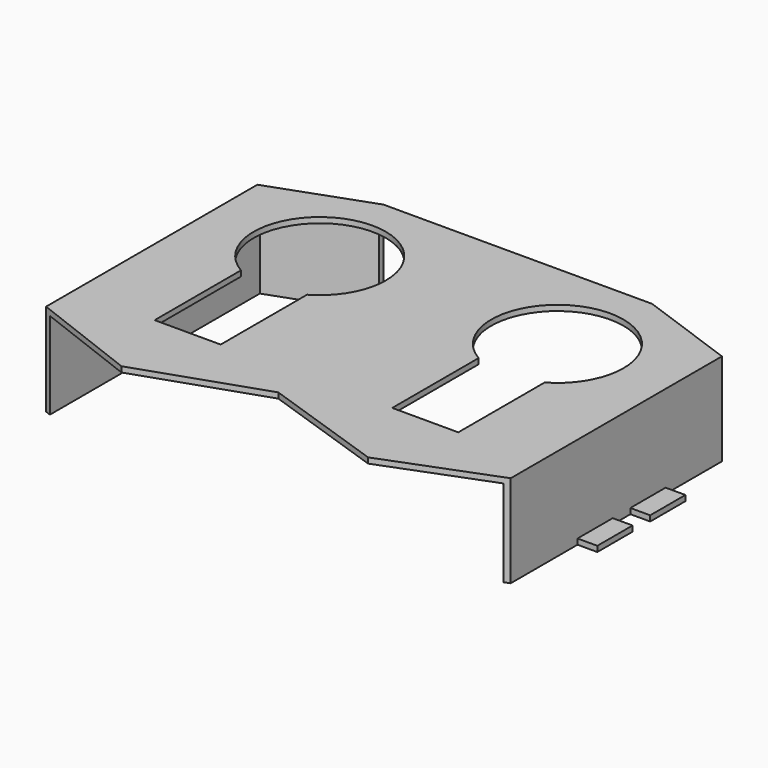
from build123d import *

# Parameters (mm, degrees)
F1_DEPTH = 4.2
F3_DEPTH = 3.95
F4_W     = 0.9
F4_H     = 3.95
F5_DEPTH = 9.801


with BuildPart() as f1:
    # F0 (on Top) → F1 (new body)
    with BuildSketch(Plane.XY):
        Polygon((-6.102773, 6.8), (-10.55, 5.197539), (-10.55, 2), (-11.45, 2), (-11.45, 0), (-10.55, 0), (-10.55, -1), (-11.45, -1), (-11.45, -3), (-10.55, -3), (-10.55, -6.793472), (-5.599174, -8.7), (0, -6.793472), (0, 0), (0, 6.8), align=None)
        with BuildLine():
            ThreePointArc((-6.895583, -0.298076), (-6.895583, 4.898076), (-2.395583, 2.3))
            ThreePointArc((-2.395583, 2.3), (-2.797507, 0.8), (-3.895583, -0.298076))
            Line((-3.895583, -0.298076), (-3.895583, -5.2))
            Line((-3.895583, -5.2), (-5.395583, -5.2))
            Line((-5.395583, -5.2), (-6.895583, -5.2))
            Line((-6.895583, -5.2), (-6.895583, -0.298076))
        make_face(mode=Mode.SUBTRACT)
        Polygon((6.102773, 6.8), (0, 6.8), (0, 0), (0, -6.793472), (5.599174, -8.7), (10.55, -6.793472), (10.55, -3), (11.45, -3), (11.45, -1), (10.55, -1), (10.55, 0), (11.45, 0), (11.45, 2), (10.55, 2), (10.55, 5.197539), align=None)
        with BuildLine():
            ThreePointArc((3.895583, -0.298076), (3.895583, 4.898076), (8.395583, 2.3))
            ThreePointArc((8.395583, 2.3), (7.99366, 0.8), (6.895583, -0.298076))
            Line((6.895583, -0.298076), (6.895583, -5.2))
            Line((6.895583, -5.2), (5.395583, -5.2))
            Line((5.395583, -5.2), (3.895583, -5.2))
            Line((3.895583, -5.2), (3.895583, -0.298076))
        make_face(mode=Mode.SUBTRACT)
    extrude(amount=-F1_DEPTH)

    # F2 (on face) → F3 (cut)
    with BuildSketch(Plane(origin=(0, 0, -4.2), x_dir=(1, 0, 0), z_dir=(0, 0, -1))):
        Polygon((10.3, -5.021887), (10.3, 9.377568), (0, 9.377568), (-10.3, 9.37597), (-10.297766, -5.023484), (-6.100304, -6.535212), (-6.099994, -8.536118), (0.001405, -8.73276), (6.102773, -8.535172), (6.102773, -6.534266), align=None)
    extrude(amount=-F3_DEPTH, mode=Mode.SUBTRACT)

    # F4 (on face) → F5 (cut, through all)
    with BuildSketch(Plane.XZ.offset(3)):
        with Locations((-11, -1.975)):
            Rectangle(F4_W, F4_H)
        with Locations((11, -1.975)):
            Rectangle(F4_W, F4_H)
    extrude(amount=-F5_DEPTH, mode=Mode.SUBTRACT)


solid = f1.part
